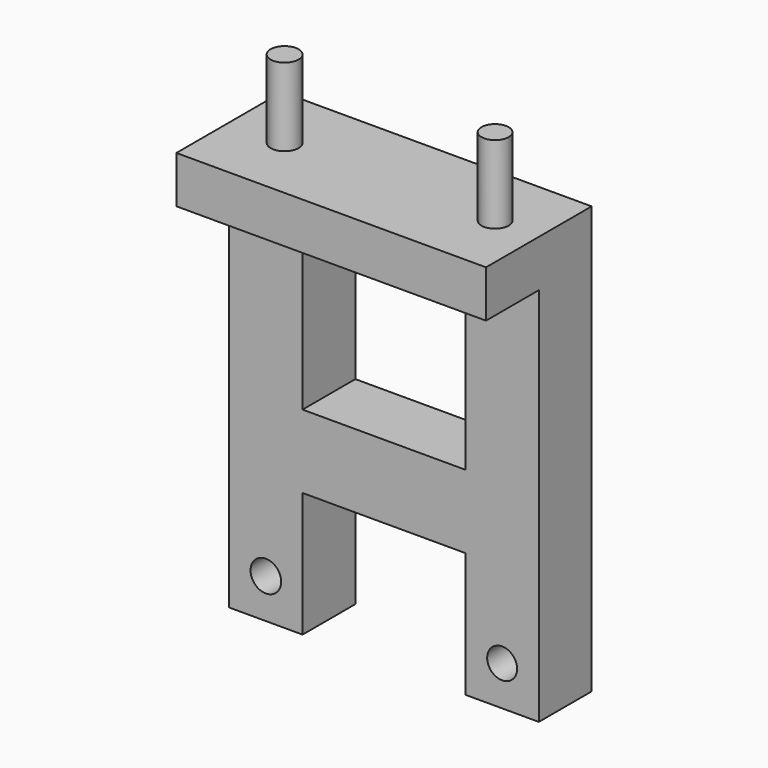
from build123d import *

# Parameters (mm, degrees)
F0_R     = 2.947507
F0_R_2   = 2.879107
F0_W     = 31.337534
F0_H     = 28.232014
F1_DEPTH = 12.7
F0_W_2   = 59.569548
F0_H_2   = 9.034242
F2_DEPTH = 25.4
F3_R     = 2.696098
F4_DEPTH = 15
F3_R_2   = 2.610721
F5_DEPTH = 15


with BuildPart() as f1:
    # F0 (on Front) → F1 (new body)
    with BuildSketch(Plane.XZ):
        Polygon((29.784774, 32.043338), (-29.784774, 32.043338), (-29.784774, -41.07758), (-15.668767, -41.07758), (-15.668767, -17.080368), (15.668767, -17.080368), (15.668767, -41.07758), (29.784774, -41.07758), align=None)
        with Locations((-22.72677, -33.454936)):
            Circle(F0_R, mode=Mode.SUBTRACT)
        with Locations((22.72677, -33.454936)):
            Circle(F0_R_2, mode=Mode.SUBTRACT)
        with Locations((0, 11.151646)):
            Rectangle(F0_W, F0_H, mode=Mode.SUBTRACT)
    extrude(amount=F1_DEPTH)

    # F0 (on Front) → F2 (join)
    with BuildSketch(Plane.XZ):
        with Locations((0, 36.560459)):
            Rectangle(F0_W_2, F0_H_2)
    extrude(amount=F2_DEPTH)

    # F3 (on face) → F4 (join)
    with BuildSketch(Plane.XY.offset(41.07758)):
        with Locations((-19.120524, -12.7)):
            Circle(F3_R)
    extrude(amount=F4_DEPTH)

    # F3 (on face) → F5 (join)
    with BuildSketch(Plane.XY.offset(41.07758)):
        with Locations((21.369504, -12.7)):
            Circle(F3_R_2)
    extrude(amount=F5_DEPTH)


solid = f1.part
